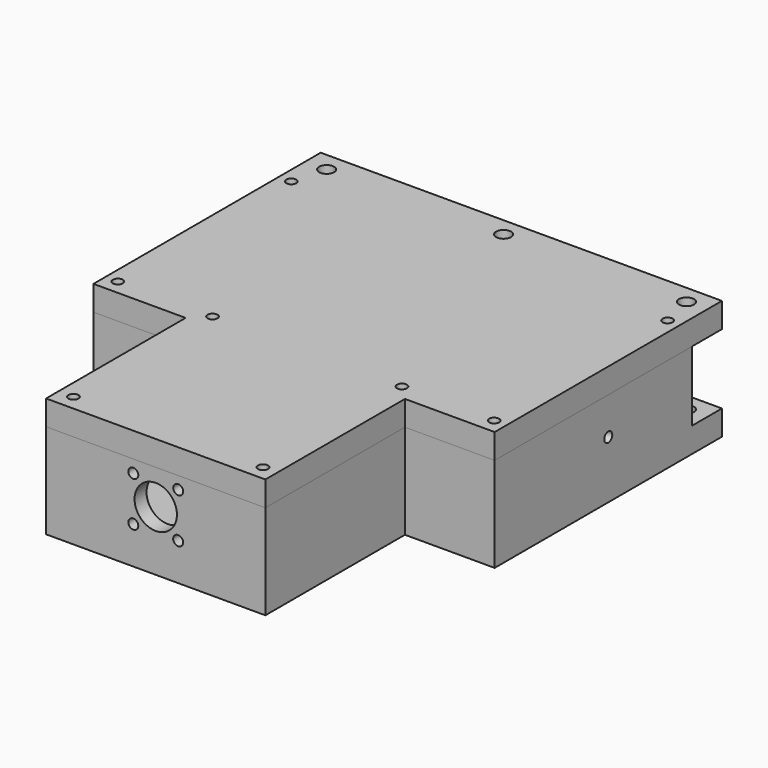
from build123d import *

# Parameters (mm, degrees)
PAD_DEPTH      = 10
PAD001_DEPTH   = 28
SKETCH003_R    = 3
HOLE_DEPTH     = 25
SKETCH008_R    = 3
HOLE004_DEPTH  = 45
SKETCH009_R    = 2
HOLE005_DEPTH  = 10
HOLE005_TIPS_R = 2
SKETCH010_R    = 8.5
HOLE006_DEPTH  = 10
HOLE006_TIPS_R = 8.5
PAD003_DEPTH   = 18
PAD004_DEPTH   = 18
PAD005_DEPTH   = 18
SKETCH014_R    = 1.75
HOLE007_DEPTH  = 22
HOLE007_TIPS_R = 1.75
SKETCH015_R    = 1.75
HOLE008_DEPTH  = 25
HOLE008_TIPS_R = 1.75
SKETCH016_R    = 1.75
HOLE009_DEPTH  = 25
HOLE009_TIPS_R = 1.75
SKETCH017_R    = 2
HOLE010_DEPTH  = 162
PAD002_DEPTH   = 10
SKETCH005_R    = 2
HOLE001_DEPTH  = 101
SKETCH007_R    = 3
HOLE003_DEPTH  = 25


with BuildPart() as box:
    # Sketch → Pad (new body)
    with BuildSketch(Plane.XY):
        Polygon((-46, 57), (115, 57), (115, -57), (79, -57), (79, -127), (-9, -127), (-9, -57), (-46, -57), align=None)
    extrude(amount=PAD_DEPTH)

    # Sketch001 (on Sketch) → Pad001 (join)
    with BuildSketch(Plane.XY.offset(10)):
        Polygon((-46, 42), (115, 42), (115, -57), (79, -57), (79, -127), (-9, -127), (-9, -57), (-46, -57), align=None)
        with BuildLine():
            Line((103, 36), (-34, 36))
            ThreePointArc((-40, 30), (-35.757359, 31.757359), (-34, 36))
            Line((-40, 30), (-40, -45))
            ThreePointArc((-34, -51), (-35.757359, -46.757359), (-40, -45))
            Line((-34, -51), (-9, -51))
            ThreePointArc((-3, -57), (1.242641, -46.757359), (-9, -51))
            Line((-3, -57), (-3, -115))
            ThreePointArc((3, -121), (1.242641, -116.757359), (-3, -115))
            Line((3, -121), (67.009574, -121))
            ThreePointArc((73, -115.009574), (68.764129, -116.764129), (67.009574, -121))
            Line((73, -115.009574), (73, -57))
            ThreePointArc((79, -51), (68.757359, -46.757359), (73, -57))
            Line((79, -51), (103, -51))
            ThreePointArc((109, -45), (104.757359, -46.757359), (103, -51))
            Line((109, -45), (109, 30))
            ThreePointArc((103, 36), (104.757359, 31.757359), (109, 30))
        make_face(mode=Mode.SUBTRACT)
    extrude(amount=PAD001_DEPTH)

    # Sketch003 → Hole (cut)
    with BuildSketch(Plane.XY.offset(10)):
        with Locations((33.370148, 49.549046)):
            Circle(SKETCH003_R)
        with Locations((106.69677, 49.573093)):
            Circle(SKETCH003_R)
        with Locations((-37.428986, 49.236504)):
            Circle(SKETCH003_R)
    extrude(amount=-HOLE_DEPTH, mode=Mode.SUBTRACT)

    # Sketch008 (on Face18 of Hole) → Hole004 (cut)
    with BuildSketch(Plane.XY.offset(38)):
        with Locations((-40, 36)):
            Circle(SKETCH008_R)
        with Locations((109, 36)):
            Circle(SKETCH008_R)
        with Locations((109, -51)):
            Circle(SKETCH008_R)
        with Locations((73, -51)):
            Circle(SKETCH008_R)
        with Locations((-3, -51)):
            Circle(SKETCH008_R)
        with Locations((-40, -51)):
            Circle(SKETCH008_R)
        with Locations((-3, -121)):
            Circle(SKETCH008_R)
        with Locations((73, -121)):
            Circle(SKETCH008_R)
    extrude(amount=-HOLE004_DEPTH, mode=Mode.SUBTRACT)

    # Sketch009 (on Face30 of Hole004) → Hole005 (cut)
    with BuildSketch(Plane.XZ.offset(127)):
        with Locations((26.003923, 32.951366)):
            Circle(SKETCH009_R)
        with Locations((44.025436, 32.999428)):
            Circle(SKETCH009_R)
        with Locations((26, 15)):
            Circle(SKETCH009_R)
        with Locations((44, 15)):
            Circle(SKETCH009_R)
    extrude(amount=-HOLE005_DEPTH, mode=Mode.SUBTRACT)

    # Hole005 tips → Hole005 tip 1 section 0
    with BuildSketch(Plane.XZ.offset(117), mode=Mode.PRIVATE) as hole005_tip_1_s0:
        with Locations((26.003923, 32.951366)):
            Circle(HOLE005_TIPS_R)
    loft([hole005_tip_1_s0.sketch, Vertex(26.003923, -115.798279, 32.951366)], mode=Mode.SUBTRACT)

    # Hole005 tips → Hole005 tip 2 section 0
    with BuildSketch(Plane.XZ.offset(117), mode=Mode.PRIVATE) as hole005_tip_2_s0:
        with Locations((44.025436, 32.999428)):
            Circle(HOLE005_TIPS_R)
    loft([hole005_tip_2_s0.sketch, Vertex(44.025436, -115.798279, 32.999428)], mode=Mode.SUBTRACT)

    # Hole005 tips → Hole005 tip 3 section 0
    with BuildSketch(Plane.XZ.offset(117), mode=Mode.PRIVATE) as hole005_tip_3_s0:
        with Locations((26, 15)):
            Circle(HOLE005_TIPS_R)
    loft([hole005_tip_3_s0.sketch, Vertex(26, -115.798279, 15)], mode=Mode.SUBTRACT)

    # Hole005 tips → Hole005 tip 4 section 0
    with BuildSketch(Plane.XZ.offset(117), mode=Mode.PRIVATE) as hole005_tip_4_s0:
        with Locations((44, 15)):
            Circle(HOLE005_TIPS_R)
    loft([hole005_tip_4_s0.sketch, Vertex(44, -115.798279, 15)], mode=Mode.SUBTRACT)

    # Sketch010 (on Face30 of Hole005) → Hole006 (cut)
    with BuildSketch(Plane.XZ.offset(127)):
        with Locations((35, 24)):
            Circle(SKETCH010_R)
    extrude(amount=-HOLE006_DEPTH, mode=Mode.SUBTRACT)

    # Hole006 tips → Hole006 tip 1 section 0
    with BuildSketch(Plane.XZ.offset(117), mode=Mode.PRIVATE) as hole006_tip_1_s0:
        with Locations((35, 24)):
            Circle(HOLE006_TIPS_R)
    loft([hole006_tip_1_s0.sketch, Vertex(35, -111.892685, 24)], mode=Mode.SUBTRACT)

    # Sketch011 (on Face52 of Hole006) → Pad003 (join)
    with BuildSketch(Plane.XY.offset(10)):
        with BuildLine():
            ThreePointArc((-18.391574, -2), (0, -18.5), (18.391574, -2))
            Line((18.391574, -2), (11.833026, -2))
            ThreePointArc((-11.833026, -2), (0, -12.000854), (11.833026, -2))
            Line((-11.833026, -2), (-18.391574, -2))
        make_face()
        with BuildLine():
            Line((-18.391574, 2), (-11.833026, 2))
            ThreePointArc((11.833026, 2), (0, 12.000854), (-11.833026, 2))
            Line((11.833026, 2), (18.391574, 2))
            ThreePointArc((18.391574, 2), (0, 18.5), (-18.391574, 2))
        make_face()
    extrude(amount=PAD003_DEPTH)

    # Sketch012 (on Face52 of Pad003) → Pad004 (join)
    with BuildSketch(Plane.XY.offset(10)):
        with BuildLine():
            ThreePointArc((51.608426, -2), (70, -18.5), (88.391574, -2))
            Line((88.391574, -2), (81.895562, -2))
            ThreePointArc((58.104438, -2), (70, -12.06252), (81.895562, -2))
            Line((58.104438, -2), (51.608426, -2))
        make_face()
        with BuildLine():
            Line((51.608426, 2), (58.104438, 2))
            ThreePointArc((81.895562, 2), (70, 12.06252), (58.104438, 2))
            Line((81.895562, 2), (88.391574, 2))
            ThreePointArc((88.391574, 2), (70, 18.5), (51.608426, 2))
        make_face()
    extrude(amount=PAD004_DEPTH)

    # Sketch013 (on Face52 of Pad004) → Pad005 (join)
    with BuildSketch(Plane.XY.offset(10)):
        with BuildLine():
            ThreePointArc((47.370968, -80), (35.003284, -72.258569), (22.6356, -80))
            Line((22.6356, -80), (26.903668, -80))
            ThreePointArc((43.1029, -80), (35.003284, -75.923596), (26.903668, -80))
            Line((43.1029, -80), (47.370968, -80))
        make_face()
        with BuildLine():
            Line((47.379279, -92), (43.115586, -92))
            ThreePointArc((26.890982, -92), (35.003284, -96.093542), (43.115586, -92))
            Line((26.890982, -92), (22.627289, -92))
            ThreePointArc((22.627289, -92), (35.003284, -99.758569), (47.379279, -92))
        make_face()
    extrude(amount=PAD005_DEPTH)

    # Sketch014 (on DatumPlane) → Hole007 (cut)
    with BuildSketch(Plane(origin=(0, -2, 3), x_dir=(-1, 0, 0), z_dir=(0, 1, 0))):
        with Locations((-71.069496, 8.903634)):
            Circle(SKETCH014_R)
    extrude(amount=HOLE007_DEPTH, mode=Mode.SUBTRACT)

    # Hole007 tips → Hole007 tip 1 section 0
    with BuildSketch(Plane(origin=(0, 20, 3), x_dir=(-1, 0, 0), z_dir=(0, 1, 0)), mode=Mode.PRIVATE) as hole007_tip_1_s0:
        with Locations((-71.069496, 8.903634)):
            Circle(HOLE007_TIPS_R)
    loft([hole007_tip_1_s0.sketch, Vertex(71.069496, 21.051506, 11.903634)], mode=Mode.SUBTRACT)

    # Sketch015 (on DatumPlane) → Hole008 (cut)
    with BuildSketch(Plane(origin=(0, -2, 3), x_dir=(-1, 0, 0), z_dir=(0, 1, 0))):
        with Locations((0, 9)):
            Circle(SKETCH015_R)
    extrude(amount=HOLE008_DEPTH, mode=Mode.SUBTRACT)

    # Hole008 tips → Hole008 tip 1 section 0
    with BuildSketch(Plane(origin=(0, 23, 3), x_dir=(-1, 0, 0), z_dir=(0, 1, 0)), mode=Mode.PRIVATE) as hole008_tip_1_s0:
        with Locations((0, 9)):
            Circle(HOLE008_TIPS_R)
    loft([hole008_tip_1_s0.sketch, Vertex(0, 24.051506, 12)], mode=Mode.SUBTRACT)

    # Sketch016 (on DatumPlane) → Hole009 (cut)
    with BuildSketch(Plane.XZ.offset(80)):
        with Locations((35, 12)):
            Circle(SKETCH016_R)
    extrude(amount=-HOLE009_DEPTH, mode=Mode.SUBTRACT)

    # Hole009 tips → Hole009 tip 1 section 0
    with BuildSketch(Plane.XZ.offset(55), mode=Mode.PRIVATE) as hole009_tip_1_s0:
        with Locations((35, 12)):
            Circle(HOLE009_TIPS_R)
    loft([hole009_tip_1_s0.sketch, Vertex(35, -53.948494, 12)], mode=Mode.SUBTRACT)

    # Sketch017 (on Face7 of Hole009) → Hole010 (cut)
    with BuildSketch(Plane(origin=(-46, 0, 0), x_dir=(0, -1, 0), z_dir=(-1, 0, 0))):
        with Locations((0, 23.045979)):
            Circle(SKETCH017_R)
    extrude(amount=-HOLE010_DEPTH, mode=Mode.SUBTRACT)


with BuildPart() as lid:
    # Sketch004 → Pad002 (new body)
    with BuildSketch(Plane.XY):
        Polygon((-46, 57), (115, 57), (115, -57), (79, -57), (79, -127), (-9, -127), (-9, -57), (-46, -57), align=None)
    extrude(amount=PAD002_DEPTH)

    # Sketch005 (on Face10 of Pad002) → Hole001 (cut)
    with BuildSketch(Plane.XY.offset(10)):
        with Locations((-41, -51)):
            Circle(SKETCH005_R)
        with Locations((-41, 36)):
            Circle(SKETCH005_R)
        with Locations((110, 36)):
            Circle(SKETCH005_R)
        with Locations((110, -51)):
            Circle(SKETCH005_R)
        with Locations((-3, -51)):
            Circle(SKETCH005_R)
        with Locations((73, -51)):
            Circle(SKETCH005_R)
        with Locations((73.24157, -121)):
            Circle(SKETCH005_R)
        with Locations((-3, -120.758812)):
            Circle(SKETCH005_R)
    extrude(amount=-HOLE001_DEPTH, mode=Mode.SUBTRACT)

    # Sketch007 (on Face5 of Hole001) → Hole003 (cut)
    with BuildSketch(Plane.XY.offset(10)):
        with Locations((-37.410107, 49.259361)):
            Circle(SKETCH007_R)
        with Locations((33.383183, 49.5093)):
            Circle(SKETCH007_R)
        with Locations((106.739067, 49.563869)):
            Circle(SKETCH007_R)
    extrude(amount=-HOLE003_DEPTH, mode=Mode.SUBTRACT)


with BuildPart() as lid_1:
    # Body001 placement: moved
    add(lid.part.moved(Location((0, 0, 38))))


solid = Compound([box.part, lid_1.part])
